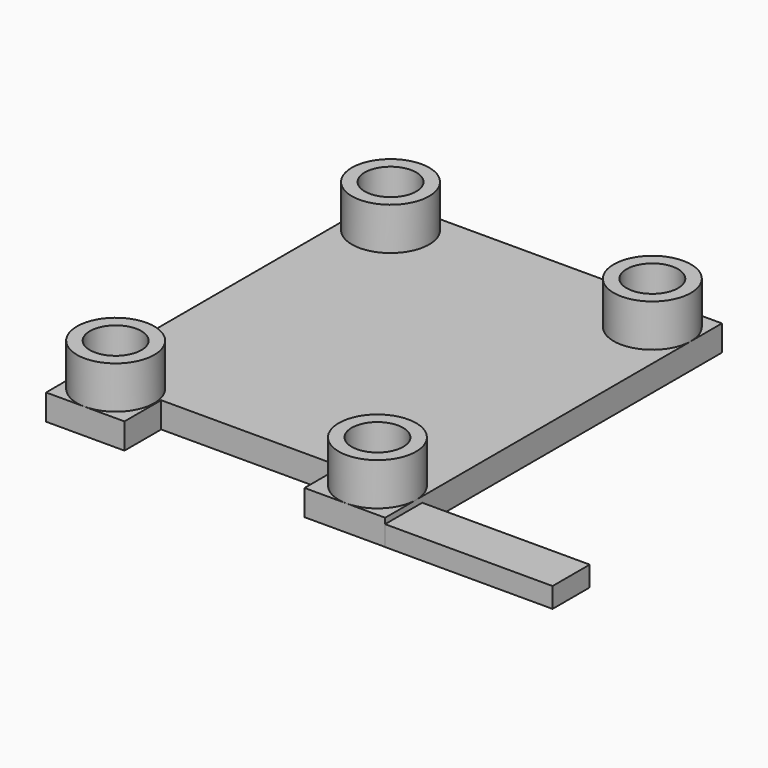
from build123d import *

# Parameters (mm, degrees)
SKETCH001_W             = 26.32
SKETCH001_H             = 32.67
PAD009_DEPTH            = 2
SKETCH004_R             = 3
SKETCH004_R_2           = 2
PAD010_DEPTH            = 3.3
SKETCH006_W             = 3.605088
SKETCH006_H             = 1.563431
PAD013_DEPTH            = 13
SKETCH015_R             = 2
POCKET_DEPTH            = 5.301
SKETCH016_W             = 13.978614
SKETCH016_H             = 3.56367
POCKET001_DEPTH         = 2.001
BODY002_PLACEMENT_ANGLE = 180


with BuildPart() as part:
    # Sketch001 → Pad009 (new body)
    with BuildSketch(Plane.XY):
        with Locations((12.7, 15.875)):
            Rectangle(SKETCH001_W, SKETCH001_H)
    extrude(amount=PAD009_DEPTH)

    # Sketch004 (on Face6 of Pad009) → Pad010 (join)
    with BuildSketch(Plane.XY.offset(2)):
        with Locations((2.54, 29.21)):
            Circle(SKETCH004_R)
        with Locations((2.54, 29.21)):
            Circle(SKETCH004_R_2, mode=Mode.SUBTRACT)
        with Locations((22.86, 29.21)):
            Circle(SKETCH004_R)
        with Locations((22.86, 29.21)):
            Circle(SKETCH004_R_2, mode=Mode.SUBTRACT)
        with Locations((22.86, 2.54)):
            Circle(SKETCH004_R)
        with Locations((22.86, 2.54)):
            Circle(SKETCH004_R_2, mode=Mode.SUBTRACT)
        with Locations((2.54, 2.54)):
            Circle(SKETCH004_R)
        with Locations((2.54, 2.54)):
            Circle(SKETCH004_R_2, mode=Mode.SUBTRACT)
    extrude(amount=PAD010_DEPTH)

    # Sketch006 (on Face1 of Pad010) → Pad013 (join)
    with BuildSketch(Plane(origin=(-0.46, 0, 0), x_dir=(0, -1, 0), z_dir=(-1, 0, 0))):
        with Locations((-30.41881, 0.781716)):
            Rectangle(SKETCH006_W, SKETCH006_H)
    extrude(amount=PAD013_DEPTH)

    # Sketch015 (on Face22 of Pad013) → Pocket (cut, through all)
    with BuildSketch(Plane.XY.offset(5.3)):
        with Locations((2.54, 29.21)):
            Circle(SKETCH015_R)
        with Locations((22.86, 29.21)):
            Circle(SKETCH015_R)
        with Locations((22.86, 2.54)):
            Circle(SKETCH015_R)
        with Locations((2.54, 2.54)):
            Circle(SKETCH015_R)
    extrude(amount=-POCKET_DEPTH, mode=Mode.SUBTRACT)

    # Sketch016 (on Face7 of Pocket) → Pocket001 (cut, through all)
    with BuildSketch(Plane.XY.offset(2)):
        with Locations((12.78762, 30.428165)):
            Rectangle(SKETCH016_W, SKETCH016_H)
    extrude(amount=-POCKET001_DEPTH, mode=Mode.SUBTRACT)


with BuildPart() as part_1:
    # Body002 placement: moved
    add(part.part.moved(Location((-9.46, 6, 68))).rotate(Axis((-9.46, 6, 68), (0, 0, 1)), BODY002_PLACEMENT_ANGLE))


solid = part_1.part
